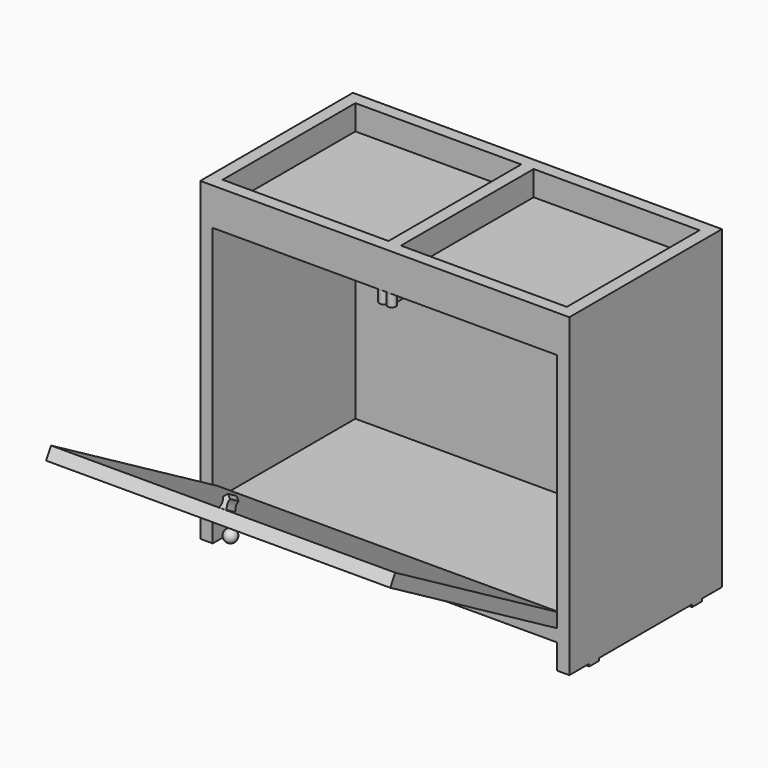
from build123d import *

# Parameters (mm, degrees)
BOX001_W          = 15
BOX001_H          = 230
BOX001_DEPTH      = 380
BOX002_W          = 15
BOX002_H          = 230
BOX002_DEPTH      = 380
BOX003_W          = 415
BOX003_H          = 215
BOX003_DEPTH      = 15
BOX004_W          = 415
BOX004_H          = 15
BOX004_DEPTH      = 350
BOX005_W          = 15
BOX005_H          = 200
BOX005_DEPTH      = 30
BOX006_W          = 415
BOX006_H          = 215
BOX006_DEPTH      = 15
BOX007_W          = 15
BOX007_H          = 15
BOX007_DEPTH      = 3
BOX008_W          = 15
BOX008_H          = 15
BOX008_DEPTH      = 3
BOX009_W          = 15
BOX009_H          = 15
BOX009_DEPTH      = 3
BOX010_W          = 15
BOX010_H          = 15
BOX010_DEPTH      = 3
BOX011_W          = 415
BOX011_H          = 15
BOX011_DEPTH      = 290
BOX011_ROLL_ANGLE = 60
CYLINDER001_R     = 5
CYLINDER001_DEPTH = 15
BOX012_W          = 10
BOX012_H          = 10
BOX012_DEPTH      = 15
CYLINDER_R        = 5
CYLINDER_DEPTH    = 15
CYLINDER003_R     = 12
CYLINDER003_DEPTH = 15
CYLINDER002_R     = 12
CYLINDER002_DEPTH = 15
BOX013_W          = 8
BOX013_H          = 15
BOX013_DEPTH      = 15
CHAMFER_SIZE      = 3.9
CUT001_ROLL_ANGLE = 60
BOX_W             = 415
BOX_H             = 15
BOX_DEPTH         = 30


with BuildPart() as obj1:
    # Box001 → Box001 (new body)
    with BuildSketch(Plane(origin=(-15, 0, -350), x_dir=(1, 0, 0), z_dir=(0, 0, 1))):
        with Locations((7.5, 115)):
            Rectangle(BOX001_W, BOX001_H)
    extrude(amount=BOX001_DEPTH)


with BuildPart() as obj2:
    # Box002 → Box002 (new body)
    with BuildSketch(Plane(origin=(415, 0, -350), x_dir=(1, 0, 0), z_dir=(0, 0, 1))):
        with Locations((7.5, 115)):
            Rectangle(BOX002_W, BOX002_H)
    extrude(amount=BOX002_DEPTH)


with BuildPart() as tamposuperiorhorizontal:
    # Box003 → Box003 (new body)
    with BuildSketch(Plane.XY.offset(-15)):
        with Locations((207.5, 107.5)):
            Rectangle(BOX003_W, BOX003_H)
    extrude(amount=BOX003_DEPTH)


with BuildPart() as obj3:
    # Box004 → Box004 (new body)
    with BuildSketch(Plane(origin=(0, 215, -320), x_dir=(1, 0, 0), z_dir=(0, 0, 1))):
        with Locations((207.5, 7.5)):
            Rectangle(BOX004_W, BOX004_H)
    extrude(amount=BOX004_DEPTH)


with BuildPart() as obj4:
    # Box005 → Box005 (new body)
    with BuildSketch(Plane(origin=(200, 15, 0), x_dir=(1, 0, 0), z_dir=(0, 0, 1))):
        with Locations((7.5, 100)):
            Rectangle(BOX005_W, BOX005_H)
    extrude(amount=BOX005_DEPTH)


with BuildPart() as tampoinferiorhorizontal:
    # Box006 → Box006 (new body)
    with BuildSketch(Plane.XY.offset(-320)):
        with Locations((207.5, 107.5)):
            Rectangle(BOX006_W, BOX006_H)
    extrude(amount=BOX006_DEPTH)


with BuildPart() as cube:
    # Box007 → Box007 (new body)
    with BuildSketch(Plane(origin=(-15, 30, -353), x_dir=(1, 0, 0), z_dir=(0, 0, 1))):
        with Locations((7.5, 7.5)):
            Rectangle(BOX007_W, BOX007_H)
    extrude(amount=BOX007_DEPTH)


with BuildPart() as cube001:
    # Box008 → Box008 (new body)
    with BuildSketch(Plane(origin=(-15, 185, -353), x_dir=(1, 0, 0), z_dir=(0, 0, 1))):
        with Locations((7.5, 7.5)):
            Rectangle(BOX008_W, BOX008_H)
    extrude(amount=BOX008_DEPTH)


with BuildPart() as cube002:
    # Box009 → Box009 (new body)
    with BuildSketch(Plane(origin=(415, 30, -353), x_dir=(1, 0, 0), z_dir=(0, 0, 1))):
        with Locations((7.5, 7.5)):
            Rectangle(BOX009_W, BOX009_H)
    extrude(amount=BOX009_DEPTH)


with BuildPart() as cube003:
    # Box010 → Box010 (new body)
    with BuildSketch(Plane(origin=(415, 185, -353), x_dir=(1, 0, 0), z_dir=(0, 0, 1))):
        with Locations((7.5, 7.5)):
            Rectangle(BOX010_W, BOX010_H)
    extrude(amount=BOX010_DEPTH)


with BuildPart() as tampabasculante:
    # Box011 → Box011 (new body)
    with BuildSketch(Plane.XY):
        with Locations((207.5, 7.5)):
            Rectangle(BOX011_W, BOX011_H)
    extrude(amount=BOX011_DEPTH)


with BuildPart() as tampabasculante_1:
    # Box011 roll: moved
    add(tampabasculante.part.rotate(Axis((0, 0, 0), (1, 0, 0)), BOX011_ROLL_ANGLE))


with BuildPart() as tampabasculante_2:
    # Box011 placement: moved
    add(tampabasculante_1.part.moved(Location((0, 0, -305))))


with BuildPart() as puxador:
    # Sphere → Sphere (revolve)
    with BuildSketch(Plane(origin=(207, -232, -180), x_dir=(1, 0, 0), z_dir=(0, -1, 0))):
        with BuildLine():
            ThreePointArc((0, -7.5), (7.5, 0), (0, 7.5))
            Line((0, 7.5), (0, -7.5))
        make_face()
    revolve(axis=Axis((207, -232, -180), (0, 0, 1)))


with BuildPart() as cylinder001:
    # Cylinder001 → Cylinder001 (new body)
    with BuildSketch(Plane(origin=(-90, 0, 0), x_dir=(1, 0, 0), z_dir=(0, 0, 1))):
        Circle(CYLINDER001_R)
    extrude(amount=CYLINDER001_DEPTH)


with BuildPart() as cube004:
    # Box012 → Box012 (new body)
    with BuildSketch(Plane(origin=(-100, 5, 0), x_dir=(1, 0, 0), z_dir=(0, 0, 1))):
        with Locations((5, 5)):
            Rectangle(BOX012_W, BOX012_H)
    extrude(amount=BOX012_DEPTH)


with BuildPart() as fusion:
    # Cylinder → Cylinder (new body)
    with BuildSketch(Plane(origin=(-100, 0, 0), x_dir=(1, 0, 0), z_dir=(0, 0, 1))):
        Circle(CYLINDER_R)
    extrude(amount=CYLINDER_DEPTH)

    # Fusion: union Cylinder001, Cube004
    add(cylinder001.part)
    add(cube004.part)


with BuildPart() as fusion_1:
    # Fusion placement: moved
    add(fusion.part.moved(Location((302, 5, -30))))


with BuildPart() as cylinder003:
    # Cylinder003 → Cylinder003 (new body)
    with BuildSketch(Plane(origin=(182, -124, -70), x_dir=(1, 0, 0), z_dir=(0, 0, 1))):
        Circle(CYLINDER003_R)
    extrude(amount=CYLINDER003_DEPTH)


with BuildPart() as cylinder002:
    # Cylinder002 → Cylinder002 (new body)
    with BuildSketch(Plane(origin=(212, -124, -70), x_dir=(1, 0, 0), z_dir=(0, 0, 1))):
        Circle(CYLINDER002_R)
    extrude(amount=CYLINDER002_DEPTH)


with BuildPart() as cut001:
    # Box013 → Box013 (new body)
    with BuildSketch(Plane(origin=(193, -130, -70), x_dir=(1, 0, 0), z_dir=(0, 0, 1))):
        with Locations((4, 7.5)):
            Rectangle(BOX013_W, BOX013_H)
    extrude(amount=BOX013_DEPTH)

    # Chamfer
    chamfer_edges = [cut001.edges().sort_by_distance(p)[0] for p in [
        (193, -115, -62.5),
        (201, -115, -62.5),
    ]]
    chamfer(chamfer_edges, length=CHAMFER_SIZE)

    # Cut: cut Cylinder002
    add(cylinder002.part, mode=Mode.SUBTRACT)

    # Cut001: cut Cylinder003
    add(cylinder003.part, mode=Mode.SUBTRACT)


with BuildPart() as cut001_1:
    # Cut001 roll: moved
    add(cut001.part.rotate(Axis((0, 0, 0), (1, 0, 0)), CUT001_ROLL_ANGLE))


with BuildPart() as cut001_2:
    # Cut001 placement: moved
    add(cut001_1.part.moved(Location((10, -226, -7))))


with BuildPart() as fusion001:
    # Box → Box (new body)
    with BuildSketch(Plane.XY):
        with Locations((207.5, 7.5)):
            Rectangle(BOX_W, BOX_H)
    extrude(amount=BOX_DEPTH)

    # Fusion001: union obj1, obj2, TampoSuperiorHorizontal, obj3, obj4, TampoInferiorHorizontal, Cube, Cube001, Cube002, Cube003, TampaBasculante, Puxador, Fusion, Cut001
    add(obj1.part)
    add(obj2.part)
    add(tamposuperiorhorizontal.part)
    add(obj3.part)
    add(obj4.part)
    add(tampoinferiorhorizontal.part)
    add(cube.part)
    add(cube001.part)
    add(cube002.part)
    add(cube003.part)
    add(tampabasculante_2.part)
    add(puxador.part)
    add(fusion_1.part)
    add(cut001_2.part)


solid = fusion001.part
